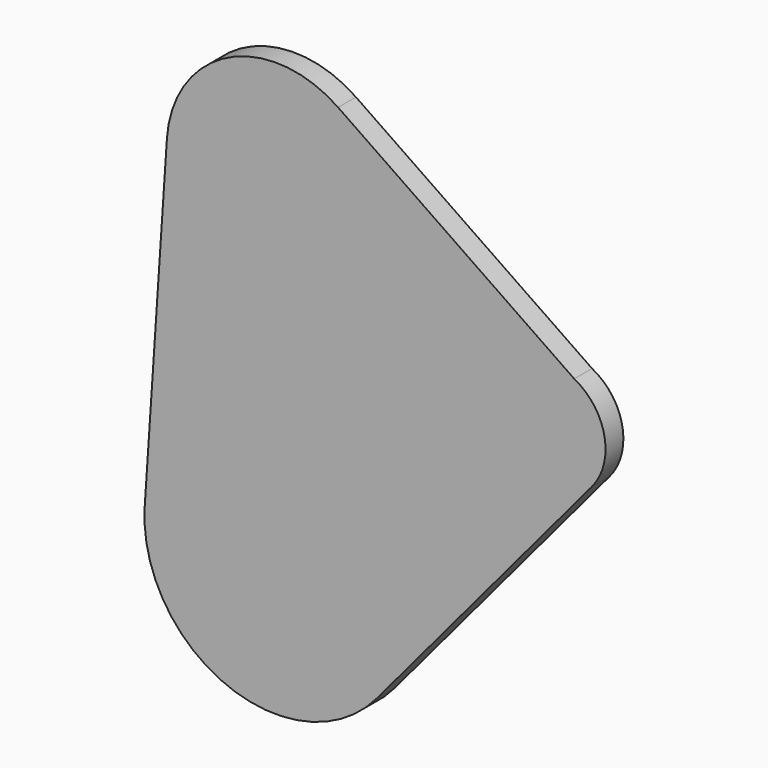
from build123d import *

# Parameters (mm, degrees)
F1_DEPTH = 5


with BuildPart() as f1:
    # F0 (on Front) → F1 (new body)
    with BuildSketch(Plane.XZ):
        with BuildLine():
            Line((-24.467418, 76.153587), (-29.441745, 1.97431))
            ThreePointArc((-29.441745, 1.97431), (-11.014327, -27.37515), (22.604954, -18.966557))
            Line((22.604954, -18.966557), (70.748462, 38.412427))
            ThreePointArc((70.748462, 38.412427), (73.55603, 49.349825), (66.790868, 58.390937))
            Line((66.790868, 58.390937), (13.882724, 94.727113))
            ThreePointArc((13.882724, 94.727113), (-10.688915, 96.583046), (-24.467418, 76.153587))
        make_face()
    extrude(amount=F1_DEPTH)


solid = f1.part
